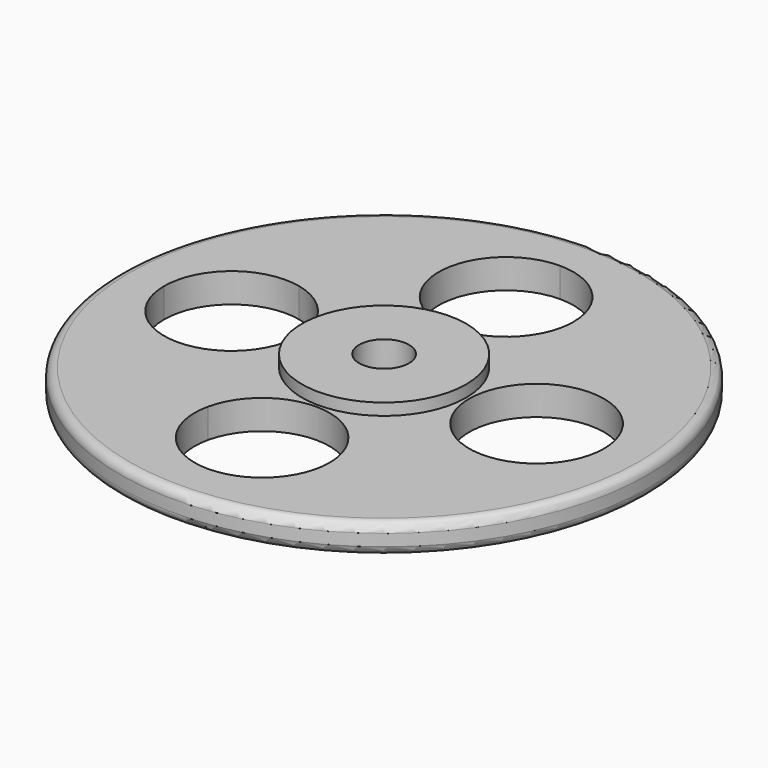
from build123d import *

# Parameters (mm, degrees)
F0_R     = 45
F0_R_2   = 14
F1_DEPTH = 5
F0_R_3   = 4.25
F2_DEPTH = 7
F3_R     = 1.5


with BuildPart() as f1:
    # F0 (on Top) → F1 (new body)
    with BuildSketch(Plane.XY):
        Circle(F0_R)
        with BuildLine():
            ThreePointArc((0, 37.5), (26.5165042945, 26.5165042945), (37.5, 0))
            ThreePointArc((37.5, 0), (26.5165043235, -26.5165042654), (8.22e-08, -37.5))
            ThreePointArc((8.22e-08, -37.5), (-26.516504245, -26.516504344), (-37.5, -5.77e-08))
            ThreePointArc((-37.5, -5.77e-08), (-26.5165043149, 26.5165042741), (0, 37.5))
        make_face(mode=Mode.SUBTRACT)
        with BuildLine():
            ThreePointArc((23.4567307692, -11.2152477289), (14.5, 0), (23.4567307692, 11.2152477289))
            ThreePointArc((23.4567307692, 11.2152477289), (18.3847763109, 18.3847763108), (11.2152477289, 23.4567307692))
            ThreePointArc((11.2152477289, 23.4567307692), (0, 14.5), (-11.2152477289, 23.4567307692))
            ThreePointArc((-11.2152477289, 23.4567307692), (-18.3847763109, 18.3847763108), (-23.4567307692, 11.2152477289))
            ThreePointArc((-23.4567307692, 11.2152477289), (-17.0139664992, 7.1764337887), (-14.5, 0))
            ThreePointArc((-14.5, 0), (-17.0139664992, -7.1764337887), (-23.4567307692, -11.2152477289))
            ThreePointArc((-23.4567307692, -11.2152477289), (-18.3847763109, -18.3847763108), (-11.2152477289, -23.4567307692))
            ThreePointArc((-11.2152477289, -23.4567307692), (0, -14.5), (11.2152477289, -23.4567307692))
            ThreePointArc((11.2152477289, -23.4567307692), (18.3847763109, -18.3847763108), (23.4567307692, -11.2152477289))
        make_face()
        Circle(F0_R_2, mode=Mode.SUBTRACT)
        with BuildLine():
            ThreePointArc((-11.2152477289, 23.4567307692), (-8.9860335008, 33.1764337887), (0, 37.5))
            ThreePointArc((0, 37.5), (-26.5165043149, 26.5165042741), (-37.5, -5.77e-08))
            ThreePointArc((-37.5, -5.77e-08), (-33.1764338112, 8.9860334828), (-23.4567307692, 11.2152477289))
            ThreePointArc((-23.4567307692, 11.2152477289), (-18.3847763109, 18.3847763108), (-11.2152477289, 23.4567307692))
        make_face()
        with BuildLine():
            ThreePointArc((23.4567307692, 11.2152477289), (33.1764337887, 8.9860335008), (37.5, 0))
            ThreePointArc((37.5, 0), (26.5165042945, 26.5165042945), (0, 37.5))
            ThreePointArc((0, 37.5), (8.1317279836, 34.1317279836), (11.5, 26))
            ThreePointArc((11.5, 26), (11.4285902211, 24.7204197723), (11.2152477289, 23.4567307692))
            ThreePointArc((11.2152477289, 23.4567307692), (18.3847763109, 18.3847763108), (23.4567307692, 11.2152477289))
        make_face()
        with BuildLine():
            ThreePointArc((-37.5, -5.77e-08), (-26.516504245, -26.516504344), (8.22e-08, -37.5))
            ThreePointArc((8.22e-08, -37.5), (-8.9860334751, -33.1764338208), (-11.2152477289, -23.4567307692))
            ThreePointArc((-11.2152477289, -23.4567307692), (-18.3847763109, -18.3847763108), (-23.4567307692, -11.2152477289))
            ThreePointArc((-23.4567307692, -11.2152477289), (-33.1764337661, -8.9860335188), (-37.5, -5.77e-08))
        make_face()
        with BuildLine():
            ThreePointArc((8.22e-08, -37.5), (26.5165043235, -26.5165042654), (37.5, 0))
            ThreePointArc((37.5, 0), (33.1764337887, -8.9860335008), (23.4567307692, -11.2152477289))
            ThreePointArc((23.4567307692, -11.2152477289), (18.3847763109, -18.3847763108), (11.2152477289, -23.4567307692))
            ThreePointArc((11.2152477289, -23.4567307692), (11.4285902211, -24.7204197723), (11.5, -26))
            ThreePointArc((11.5, -26), (8.1317280127, -34.1317279546), (8.22e-08, -37.5))
        make_face()
    extrude(amount=F1_DEPTH)

    # F0 (on Top) → F2 (join)
    with BuildSketch(Plane.XY):
        Circle(F0_R_2)
        Circle(F0_R_3, mode=Mode.SUBTRACT)
    extrude(amount=F2_DEPTH)

    # F3
    f3_edges = [f1.edges().sort_by_distance(p)[0] for p in [
        (-45, 0, 5),
        (-45, 0, 0),
    ]]
    fillet(f3_edges, radius=F3_R)


solid = f1.part
